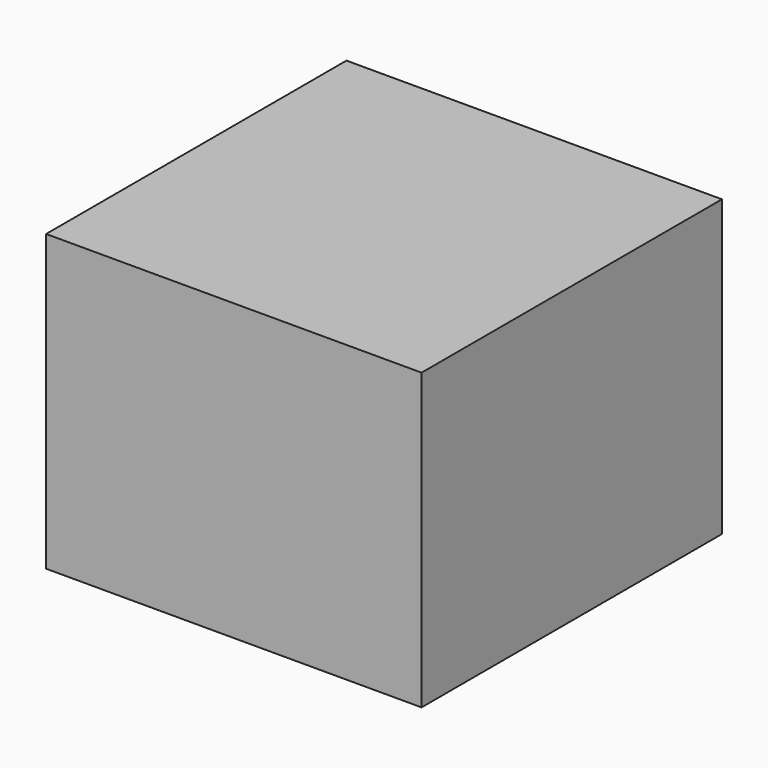
from build123d import *

# Parameters (mm, degrees)
F0_W     = 34.4
F0_H     = 34.4
F0_W_2   = 31.4
F0_H_2   = 31.4
F1_DEPTH = 27
F2_DEPTH = 3


with BuildPart() as f1:
    # F0 (on Top) → F1 (new body)
    with BuildSketch(Plane.XY):
        Rectangle(F0_W, F0_H)
        Rectangle(F0_W_2, F0_H_2, mode=Mode.SUBTRACT)
    extrude(amount=-F1_DEPTH)

    # F0 (on Top) → F2 (join)
    with BuildSketch(Plane.XY):
        Rectangle(F0_W_2, F0_H_2)
    extrude(amount=-F2_DEPTH)


solid = f1.part
